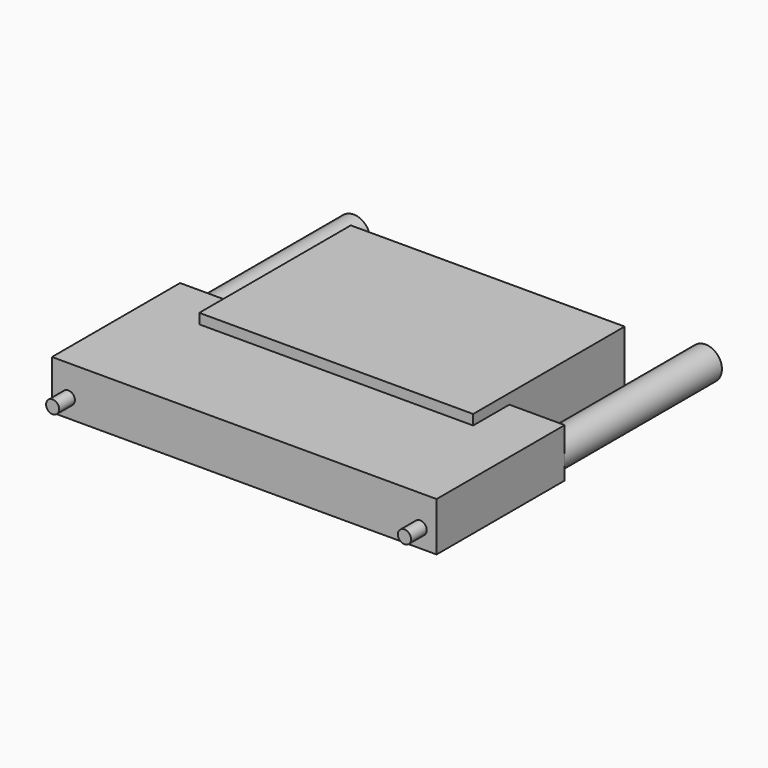
from build123d import *

# Parameters (mm, degrees)
F0_W     = 41.8
F0_H     = 22
F1_DEPTH = 7.45
F2_W     = 41.8
F2_H     = 28.9
F3_DEPTH = 1.55
F4_R     = 1
F5_DEPTH = 3
F6_R     = 2.5
F7_DEPTH = 30


with BuildPart() as f1:
    # F0 (on Top) → F1 (new body)
    with BuildSketch(Plane.XY):
        Polygon((-29.35, 0), (29.35, 0), (29.35, 24.44), (20.9, 24.44), (-20.9, 24.44), (-29.35, 24.44), align=None)
        with Locations((0, 35.44)):
            Rectangle(F0_W, F0_H)
    extrude(amount=F1_DEPTH)

    # F2 (on face) → F3 (join)
    with BuildSketch(Plane.XY.offset(7.45)):
        with Locations((0, 31.99)):
            Rectangle(F2_W, F2_H)
    extrude(amount=F3_DEPTH)

    # F4 (on face) → F5 (join)
    with BuildSketch(Plane.XZ):
        with Locations((-26.85, 2.78)):
            Circle(F4_R)
        with Locations((26.85, 2.78)):
            Circle(F4_R)
    extrude(amount=F5_DEPTH)

    # F6 (on face) → F7 (join)
    with BuildSketch(Plane(origin=(0, 24.44, 0), x_dir=(-1, 0, 0), z_dir=(0, 1, 0))):
        with Locations((-26.85, 2.78)):
            Circle(F6_R)
        with Locations((26.85, 2.78)):
            Circle(F6_R)
    extrude(amount=F7_DEPTH)


solid = f1.part
